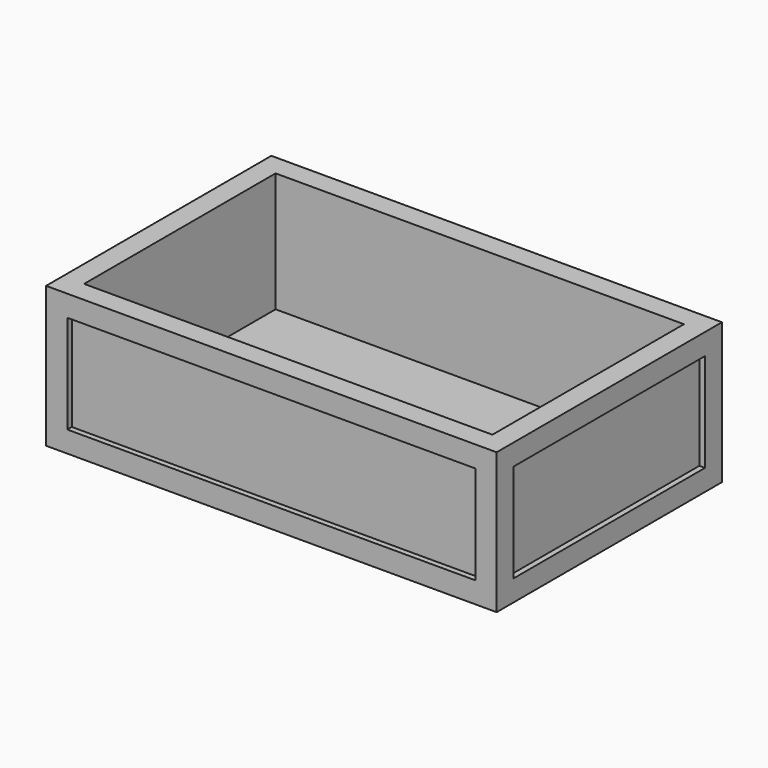
from build123d import *

# Parameters (mm, degrees)
F0_W     = 101.6
F0_H     = 63.5
F1_DEPTH = 31.75
F2_T     = -4.7625
F4_W     = 53.9496
F4_H     = 22.1996
F6_DEPTH = 1.27
F3_W     = 92.0496
F3_H     = 22.1996
F7_DEPTH = 1.27
F5_W     = 53.9496
F5_H     = 22.1996
F8_DEPTH = 1.27


with BuildPart() as f1:
    # F0 (on Top) → F1 (new body)
    with BuildSketch(Plane.XY):
        Rectangle(F0_W, F0_H)
    extrude(amount=F1_DEPTH)

    # F2
    f2_openings = [f1.faces().sort_by_distance(p)[0] for p in [
        (0, 0, 31.75),
    ]]
    offset(amount=F2_T, openings=f2_openings)

    # F4 (on face) → F6 (cut)
    with BuildSketch(Plane.YZ.offset(50.8)):
        with Locations((0, 15.875)):
            Rectangle(F4_W, F4_H)
    extrude(amount=-F6_DEPTH, mode=Mode.SUBTRACT)

    # F3 (on face) → F7 (cut)
    with BuildSketch(Plane.XZ.offset(31.75)):
        with Locations((0, 15.875)):
            Rectangle(F3_W, F3_H)
    extrude(amount=-F7_DEPTH, mode=Mode.SUBTRACT)

    # F5 (on face) → F8 (cut)
    with BuildSketch(Plane(origin=(-50.8, 0, 0), x_dir=(0, -1, 0), z_dir=(-1, 0, 0))):
        with Locations((0, 15.875)):
            Rectangle(F5_W, F5_H)
    extrude(amount=-F8_DEPTH, mode=Mode.SUBTRACT)


solid = f1.part
